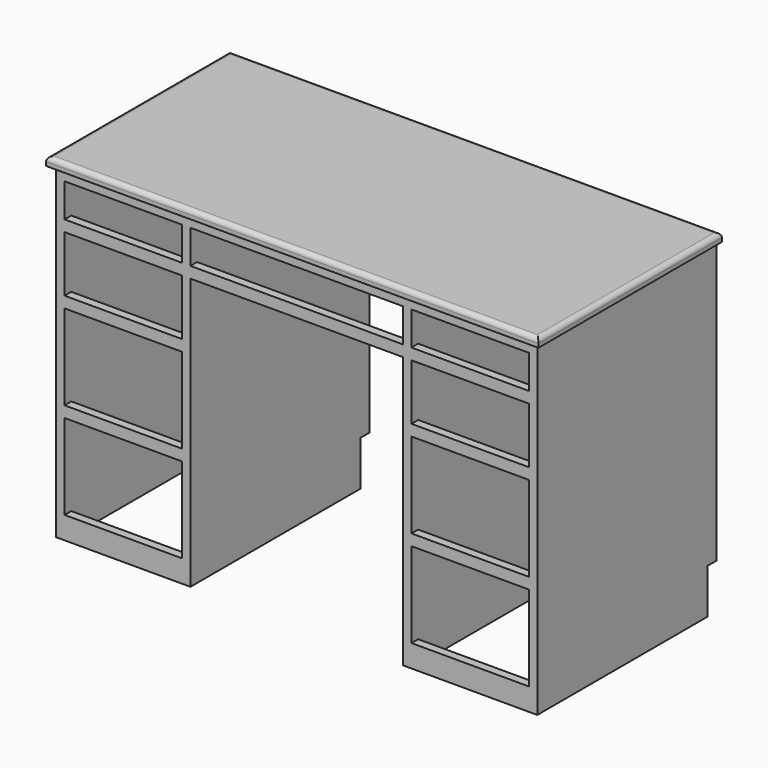
from build123d import *

# Parameters (mm, degrees)
F0_W     = 482.6
F0_H     = 488.95
F0_W_2   = 266.7
F0_H_2   = 19.05
F1_DEPTH = 19.05
F2_DEPTH = 742.95
F3_DEPTH = 742.95
F4_R     = 10.16
F5_DEPTH = 127
F6_W     = 266.7
F6_H     = 193.675
F6_H_2   = 127
F6_H_3   = 76.2
F6_W_2   = 482.6
F7_DEPTH = 25.4
F8_W     = 25.4
F8_H     = 101.6
F9_DEPTH = 1104.901


with BuildPart() as f1:
    # F0 (on Top) → F1 (new body)
    with BuildSketch(Plane.XY):
        Polygon((265.602367, -235.660885), (265.602367, 253.289115), (246.552367, 253.289115), (246.552367, -235.660885), (246.552367, -254.710885), (265.602367, -254.710885), align=None)
        Polygon((551.352367, -254.710885), (551.352367, 253.289115), (532.302367, 253.289115), (532.302367, -235.660885), (532.302367, -254.710885), align=None)
        Polygon((-553.547633, 253.289115), (-553.547633, -267.410885), (564.052367, -267.410885), (564.052367, 253.289115), (551.352367, 253.289115), (551.352367, -254.710885), (532.302367, -254.710885), (265.602367, -254.710885), (246.552367, -254.710885), (-236.047633, -254.710885), (-255.097633, -254.710885), (-521.797633, -254.710885), (-540.847633, -254.710885), (-540.847633, 253.289115), align=None)
        with Locations((5.252367, 8.814115)):
            Rectangle(F0_W, F0_H)
        Polygon((-521.797633, 253.289115), (-540.847633, 253.289115), (-540.847633, -254.710885), (-521.797633, -254.710885), (-521.797633, -235.660885), align=None)
        with Locations((398.952367, 8.814115)):
            Rectangle(F0_W_2, F0_H)
        Polygon((-236.047633, 253.289115), (-255.097633, 253.289115), (-255.097633, -235.660885), (-255.097633, -254.710885), (-236.047633, -254.710885), (-236.047633, -235.660885), align=None)
        with Locations((-388.447633, 8.814115)):
            Rectangle(F0_W_2, F0_H)
        with Locations((-388.447633, -245.185885)):
            Rectangle(F0_W_2, F0_H_2)
        with Locations((5.252367, -245.185885)):
            Rectangle(F0_W, F0_H_2)
        with Locations((398.952367, -245.185885)):
            Rectangle(F0_W_2, F0_H_2)
    extrude(amount=F1_DEPTH)

    # F0 (on Top) → F2 (join)
    with BuildSketch(Plane.XY):
        Polygon((-521.797633, 253.289115), (-540.847633, 253.289115), (-540.847633, -254.710885), (-521.797633, -254.710885), (-521.797633, -235.660885), align=None)
        Polygon((-236.047633, 253.289115), (-255.097633, 253.289115), (-255.097633, -235.660885), (-255.097633, -254.710885), (-236.047633, -254.710885), (-236.047633, -235.660885), align=None)
        Polygon((265.602367, -235.660885), (265.602367, 253.289115), (246.552367, 253.289115), (246.552367, -235.660885), (246.552367, -254.710885), (265.602367, -254.710885), align=None)
        Polygon((551.352367, -254.710885), (551.352367, 253.289115), (532.302367, 253.289115), (532.302367, -235.660885), (532.302367, -254.710885), align=None)
    extrude(amount=-F2_DEPTH)

    # F0 (on Top) → F3 (join)
    with BuildSketch(Plane.XY):
        with Locations((-388.447633, -245.185885)):
            Rectangle(F0_W_2, F0_H_2)
        with Locations((398.952367, -245.185885)):
            Rectangle(F0_W_2, F0_H_2)
    extrude(amount=-F3_DEPTH)

    # F4
    f4_edges = [f1.edges().sort_by_distance(p)[0] for p in [
        (-553.547633, -7.060885, 19.05),
        (5.252367, -267.410885, 19.05),
        (564.052367, -7.060885, 19.05),
        (5.252367, 253.289115, 19.05),
    ]]
    fillet(f4_edges, radius=F4_R)

    # F0 (on Top) → F5 (join)
    with BuildSketch(Plane.XY):
        with Locations((5.252367, -245.185885)):
            Rectangle(F0_W, F0_H_2)
    extrude(amount=-F5_DEPTH)

    # F6 (on face) → F7 (cut)
    with BuildSketch(Plane.XZ.offset(254.710885)):
        with Locations((-388.447633, -595.3125)):
            Rectangle(F6_W, F6_H)
        with Locations((-388.447633, -376.2375)):
            Rectangle(F6_W, F6_H)
        with Locations((-388.447633, -190.5)):
            Rectangle(F6_W, F6_H_2)
        with Locations((-388.447633, -63.5)):
            Rectangle(F6_W, F6_H_3)
        with Locations((5.252367, -63.5)):
            Rectangle(F6_W_2, F6_H_3)
        with Locations((398.952367, -63.5)):
            Rectangle(F6_W, F6_H_3)
        with Locations((398.952367, -190.5)):
            Rectangle(F6_W, F6_H_2)
        with Locations((398.952367, -376.2375)):
            Rectangle(F6_W, F6_H)
        with Locations((398.952367, -595.3125)):
            Rectangle(F6_W, F6_H)
    extrude(amount=-F7_DEPTH, mode=Mode.SUBTRACT)

    # F8 (on face) → F9 (cut, through all)
    with BuildSketch(Plane.YZ.offset(551.352367)):
        with Locations((240.589115, -692.15)):
            Rectangle(F8_W, F8_H)
    extrude(amount=-F9_DEPTH, mode=Mode.SUBTRACT)


solid = f1.part
